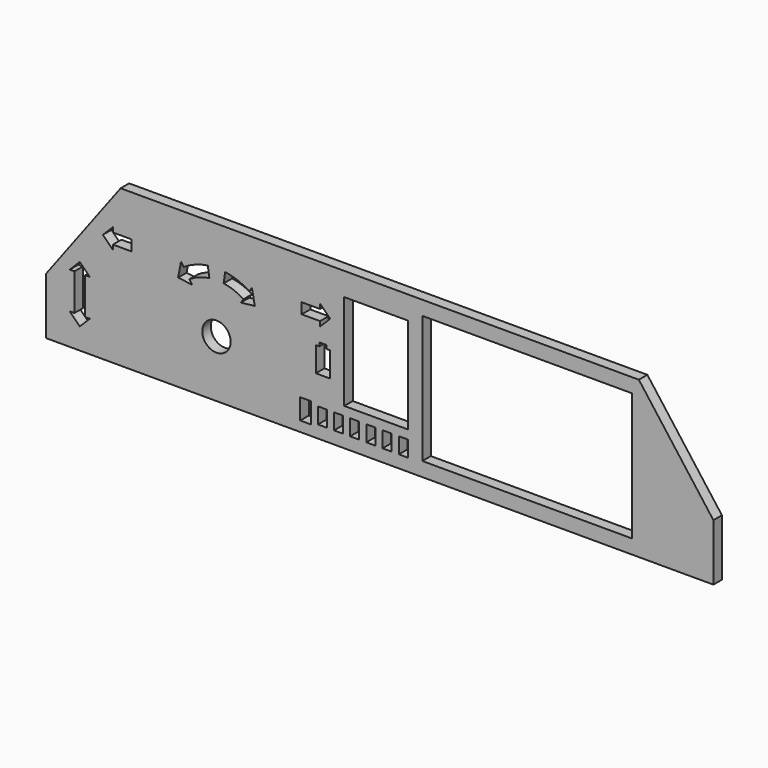
from build123d import *

# Parameters (mm, degrees)
F0_W     = 16.002
F0_H     = 28.575
F0_W_2   = 16.383
F0_R     = 25.4
F0_W_3   = 114.3
F0_H_2   = 171.45
F1_DEPTH = 19.05


with BuildPart() as f1:
    # F0 (on Front) → F1 (new body)
    with BuildSketch(Plane.XZ):
        Polygon((-596.9, -50.8), (-596.9, -127), (-596.9, -152.4), (596.9, -152.4), (596.9, -127), (596.9, -50.8), (463.55, 127), (-463.55, 127), align=None)
        Polygon((-123.19, -97.549498), (-123.19, -101.6), (-123.19, -115.8875), (-123.19, -130.175), (-123.19, -134.215891), (-142.208517, -134.215891), (-142.208517, -97.549498), align=None, mode=Mode.SUBTRACT)
        with Locations((-102.489, -115.8875)):
            Rectangle(F0_W, F0_H, mode=Mode.SUBTRACT)
        with Locations((-73.787, -115.8875)):
            Rectangle(F0_W, F0_H, mode=Mode.SUBTRACT)
        with Locations((-44.8945, -115.8875)):
            Rectangle(F0_W_2, F0_H, mode=Mode.SUBTRACT)
        with Locations((-15.8115, -115.8875)):
            Rectangle(F0_W_2, F0_H, mode=Mode.SUBTRACT)
        Polygon((-518.614488, -96.339488), (-536.575, -114.3), (-554.535512, -96.339488), (-546.1, -96.339488), (-546.1, -63.5), (-546.1, -30.660512), (-554.535512, -30.660512), (-536.575, -12.7), (-518.614488, -30.660512), (-527.05, -30.660512), (-527.05, -63.5), (-527.05, -96.339488), align=None, mode=Mode.SUBTRACT)
        with Locations((-292.1, -50.8)):
            Circle(F0_R, mode=Mode.SUBTRACT)
        Polygon((-88.9, -50.8), (-114.3, -50.8), (-114.3, -6.35), (-107.95, -6.35), (-107.95, 0), (-95.25, 0), (-95.25, -6.35), (-88.9, -6.35), align=None, mode=Mode.SUBTRACT)
        with Locations((13.2715, -115.8875)):
            Rectangle(F0_W_2, F0_H, mode=Mode.SUBTRACT)
        with Locations((42.164, -115.8875)):
            Rectangle(F0_W, F0_H, mode=Mode.SUBTRACT)
        Polygon((450.85, -127), (76.2, -127), (76.2, 101.6), (450.85, 101.6), (450.85, 0), align=None, mode=Mode.SUBTRACT)
        Polygon((-477.339488, 52.885512), (-444.5, 52.885512), (-444.5, 33.835512), (-477.339488, 33.835512), (-477.339488, 25.4), (-495.3, 43.360512), (-477.339488, 61.321024), align=None, mode=Mode.SUBTRACT)
        with BuildLine():
            ThreePointArc((-350.831293, 39.775039), (-330.058088, 50.256351), (-307.521429, 56.042791))
            Line((-307.521429, 56.042791), (-304.8, 37.188181))
            ThreePointArc((-304.8, 37.188181), (-323.359602, 32.422877), (-340.466947, 23.791209))
            Line((-340.466947, 23.791209), (-335.877518, 16.713419))
            Line((-335.877518, 16.713419), (-360.769437, 19.712333))
            Line((-360.769437, 19.712333), (-355.420722, 46.852828))
            Line((-355.420722, 46.852828), (-350.831293, 39.775039))
        make_face(mode=Mode.SUBTRACT)
        with Locations((-6.35, 0)):
            Rectangle(F0_W_3, F0_H_2, mode=Mode.SUBTRACT)
        with BuildLine():
            Line((-279.264106, 37.168459), (-276.513557, 56.018843))
            ThreePointArc((-276.513557, 56.018843), (-254.063875, 50.227005), (-233.368707, 39.775039))
            Line((-233.368707, 39.775039), (-228.779278, 46.852828))
            Line((-228.779278, 46.852828), (-223.430563, 19.712333))
            Line((-223.430563, 19.712333), (-248.564992, 16.876708))
            Line((-248.564992, 16.876708), (-243.733053, 23.791209))
            ThreePointArc((-243.733053, 23.791209), (-260.776133, 32.39871), (-279.264106, 37.168459))
        make_face(mode=Mode.SUBTRACT)
        Polygon((-139.534989, 33.835512), (-139.534989, 52.885512), (-106.695501, 52.885512), (-106.695501, 61.321024), (-88.734989, 43.360512), (-106.695501, 25.4), (-106.695501, 33.835512), align=None, mode=Mode.SUBTRACT)
    extrude(amount=F1_DEPTH)


solid = f1.part
